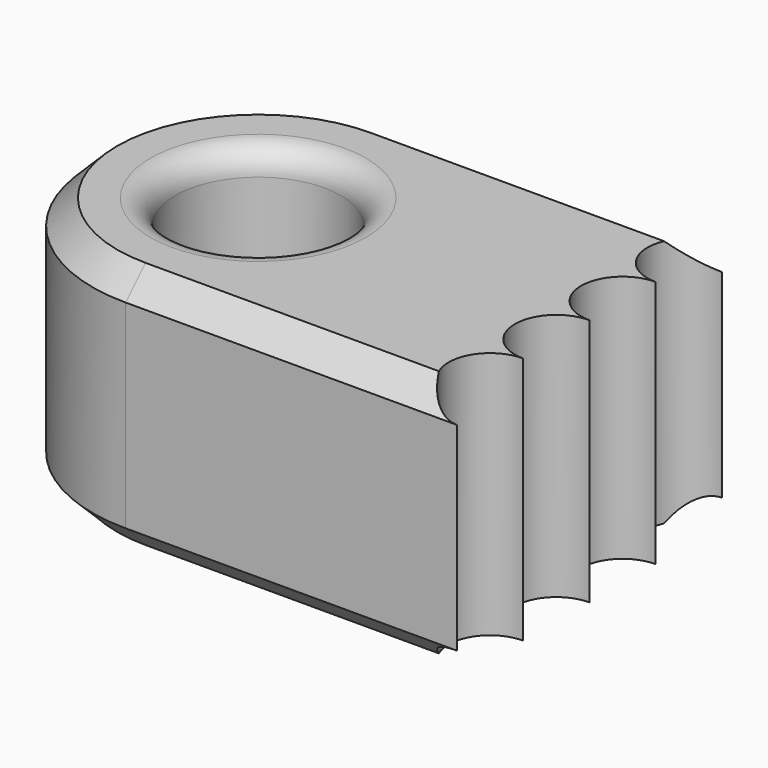
from build123d import *

# Parameters (mm, degrees)
F0_R     = 10
F1_DEPTH = 15
F2_R     = 3
F3_R     = 3
F4_SIZE  = 3
F5_SIZE  = 3


with BuildPart() as f1:
    # F0 (on Top) → F1 (new body, symmetric)
    with BuildSketch(Plane.XY):
        with BuildLine():
            Line((20.557612, 20), (-19.442388, 20))
            ThreePointArc((-19.442388, 20), (-39.442388, 0), (-19.442388, -20))
            Line((-19.442388, -20), (20.557612, -20))
            ThreePointArc((20.557612, -20), (15.557612, -15), (20.557612, -10))
            ThreePointArc((20.557612, -10), (15.557612, -5), (20.557612, 0))
            ThreePointArc((20.557612, 0), (15.557612, 5), (20.557612, 10))
            ThreePointArc((20.557612, 10), (15.557612, 15), (20.557612, 20))
        make_face()
        with Locations((-19.442388, 0)):
            Circle(F0_R, mode=Mode.SUBTRACT)
    extrude(amount=F1_DEPTH, both=True)

    # F2
    f2_edges = [f1.edges().sort_by_distance(p)[0] for p in [
        (-29.442388, 0, 15),
    ]]
    fillet(f2_edges, radius=F2_R)

    # F3
    f3_edges = [f1.edges().sort_by_distance(p)[0] for p in [
        (-29.442388, 0, -15),
    ]]
    fillet(f3_edges, radius=F3_R)

    # F4
    f4_edges = [f1.edges().sort_by_distance(p)[0] for p in [
        (0.557612, 20, 15),
        (-39.442388, 0, 15),
        (0.557612, -20, 15),
    ]]
    chamfer(f4_edges, length=F4_SIZE)

    # F5
    f5_edges = [f1.edges().sort_by_distance(p)[0] for p in [
        (0.557612, -20, -15),
        (-39.442388, 0, -15),
        (0.557612, 20, -15),
    ]]
    chamfer(f5_edges, length=F5_SIZE)


solid = f1.part
